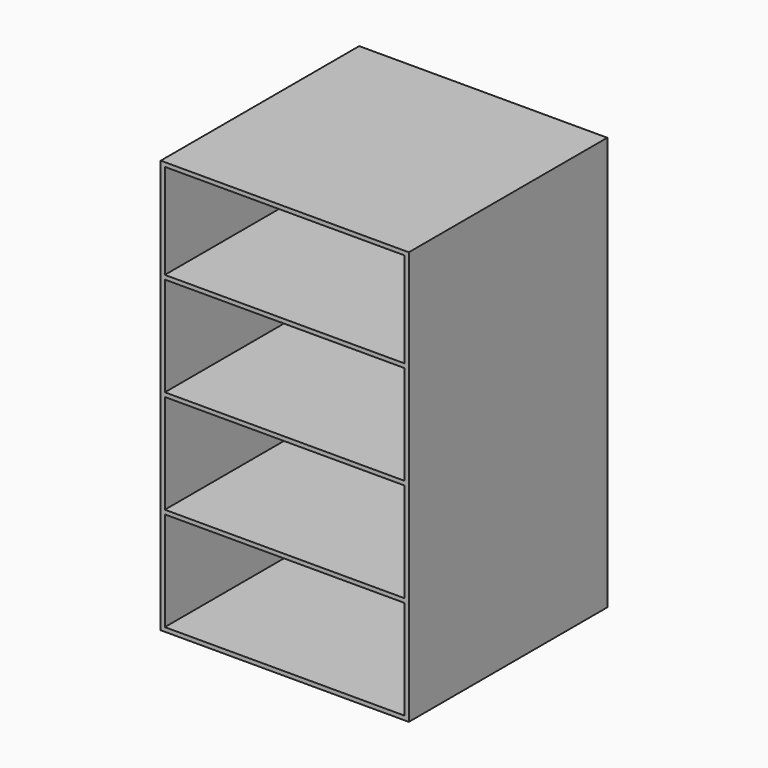
from build123d import *

# Parameters (mm, degrees)
F0_W      = 60
F0_H      = 60
F1_DEPTH  = 50
F2_T      = -1
F5_W      = 60
F5_H      = 60
F6_DEPTH  = 1
F7_W      = 60
F7_H      = 60
F8_DEPTH  = 1
F9_W      = 60
F9_H      = 60
F10_DEPTH = 1


with BuildPart() as f1:
    # F0 (on Top) → F1 (new body, symmetric)
    with BuildSketch(Plane.XY):
        Rectangle(F0_W, F0_H)
    extrude(amount=F1_DEPTH, both=True)

    # F2
    f2_openings = [f1.faces().sort_by_distance(p)[0] for p in [
        (0, -30, 0),
    ]]
    offset(amount=F2_T, openings=f2_openings)

    # F5 (on offset) → F6 (join)
    with BuildSketch(Plane.XY.offset(25)):
        Rectangle(F5_W, F5_H)
    extrude(amount=F6_DEPTH)

    # F7 (on Top) → F8 (join)
    with BuildSketch(Plane.XY):
        Rectangle(F7_W, F7_H)
    extrude(amount=F8_DEPTH)

    # F9 (on offset) → F10 (join)
    with BuildSketch(Plane.XY.offset(-25)):
        Rectangle(F9_W, F9_H)
    extrude(amount=F10_DEPTH)


solid = f1.part
